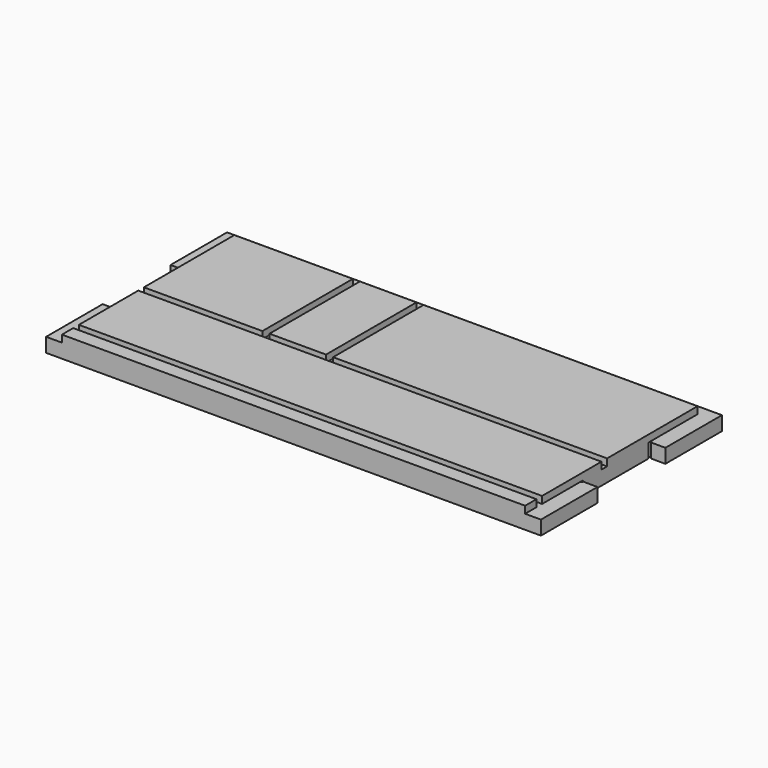
from build123d import *

# Parameters (mm, degrees)
F0_W     = 222.25
F0_H     = 101.6
F1_DEPTH = 9.525
F2_W     = 7.112
F2_H     = 38.1
F3_DEPTH = 9.526
F4_W     = 7.112
F4_H     = 31.75
F5_DEPTH = 3.175
F6_W     = 208.026
F6_H     = 3.175
F6_W_2   = 3.175
F6_H_2   = 50.8
F7_DEPTH = 3.175
F9_DEPTH = 6.35


with BuildPart() as f1:
    # F0 (on Top) → F1 (new body)
    with BuildSketch(Plane.XY):
        Rectangle(F0_W, F0_H)
    extrude(amount=F1_DEPTH)

    # F2 (on face) → F3 (cut, through all)
    with BuildSketch(Plane.XY.offset(9.525)):
        with Locations((-107.569, 0)):
            Rectangle(F2_W, F2_H)
        with Locations((107.569, 0)):
            Rectangle(F2_W, F2_H)
    extrude(amount=-F3_DEPTH, mode=Mode.SUBTRACT)

    # F4 (on face) → F5 (cut)
    with BuildSketch(Plane.XY.offset(9.525)):
        Polygon((-111.125, 19.05), (-104.013, 19.05), (-104.013, 46.0248), (104.013, 46.0248), (104.013, 19.05), (111.125, 19.05), (111.125, 50.8), (-111.125, 50.8), align=None)
        with Locations((-107.569, -34.925)):
            Rectangle(F4_W, F4_H)
        with Locations((107.569, -34.925)):
            Rectangle(F4_W, F4_H)
    extrude(amount=-F5_DEPTH, mode=Mode.SUBTRACT)

    # F6 (on face) → F7 (cut)
    with BuildSketch(Plane.XY.offset(9.525)):
        with Locations((0, -42.8625)):
            Rectangle(F6_W, F6_H)
        Polygon((-50.8, -4.7752), (-104.013, -4.7752), (-104.013, -7.9502), (104.013, -7.9502), (104.013, -4.7752), (-19.05, -4.7752), (-22.225, -4.7752), (-47.625, -4.7752), align=None)
        with Locations((-49.2125, 20.6248)):
            Rectangle(F6_W_2, F6_H_2)
        with Locations((-20.6375, 20.6248)):
            Rectangle(F6_W_2, F6_H_2)
    extrude(amount=-F7_DEPTH, mode=Mode.SUBTRACT)

    # F8 (on face) → F9 (cut, through all)
    with BuildSketch(Plane(origin=(0, 0, 0), x_dir=(1, 0, 0), z_dir=(0, 0, -1))):
        with BuildLine():
            Line((104.013, -19.05), (104.013, -18.415))
            ThreePointArc((104.013, -18.415), (103.563987, -19.499013), (104.648, -19.05))
            Line((104.648, -19.05), (104.013, -19.05))
        make_face()
        with BuildLine():
            ThreePointArc((104.648, 19.05), (103.563987, 19.499013), (104.013, 18.415))
            Line((104.013, 18.415), (104.013, 19.05))
            Line((104.013, 19.05), (104.648, 19.05))
        make_face()
        with BuildLine():
            Line((-104.013, 19.05), (-104.013, 18.415))
            ThreePointArc((-104.013, 18.415), (-103.563987, 19.499013), (-104.648, 19.05))
            Line((-104.648, 19.05), (-104.013, 19.05))
        make_face()
        with BuildLine():
            ThreePointArc((-104.648, -19.05), (-103.563987, -19.499013), (-104.013, -18.415))
            Line((-104.013, -18.415), (-104.013, -19.05))
            Line((-104.013, -19.05), (-104.648, -19.05))
        make_face()
    extrude(amount=-F9_DEPTH, mode=Mode.SUBTRACT)


solid = f1.part
